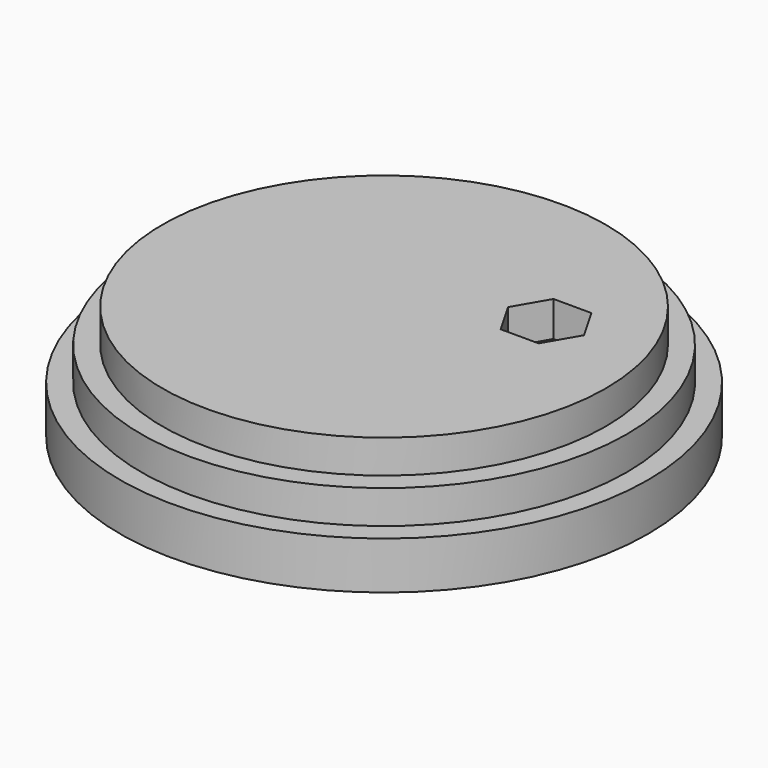
from build123d import *

# Parameters (mm, degrees)
F0_W     = 19.05
F0_H     = 3.429
F2_W     = 17.526
F2_H     = 2.413
F4_W     = 16.002
F4_H     = 2.413
F6_R     = 1.7399
F7_DEPTH = 6.985
F9_DEPTH = 2.54


with BuildPart() as f1:
    # F0 (on Front) → F1 (revolve)
    with BuildSketch(Plane.XZ):
        with Locations((9.525, 1.7145)):
            Rectangle(F0_W, F0_H)
    revolve(axis=Axis((0, 0, 1.7145), (0, 0, 1)))

    # F2 (on Front) → F3 (revolve)
    with BuildSketch(Plane.XZ):
        with Locations((8.763, 4.6355)):
            Rectangle(F2_W, F2_H)
    revolve(axis=Axis((0, 0, 4.6355), (0, 0, 1)))

    # F4 (on Front) → F5 (revolve)
    with BuildSketch(Plane.XZ):
        with Locations((8.001, 7.0485)):
            Rectangle(F4_W, F4_H)
    revolve(axis=Axis((0, 0, 7.0485), (0, 0, 1)))

    # F6 (on face) → F7 (cut)
    with BuildSketch(Plane.XY.offset(8.255)):
        with Locations((8.243714, 4.308599)):
            Circle(F6_R)
    extrude(amount=-F7_DEPTH, mode=Mode.SUBTRACT)

    # F8 (on face) → F9 (cut)
    with BuildSketch(Plane.XY.offset(8.255)):
        Polygon((10.986907, 4.302744), (9.620381, 6.681347), (6.877187, 6.687202), (5.50052, 4.314454), (6.867046, 1.935851), (9.61024, 1.929996), align=None)
    extrude(amount=-F9_DEPTH, mode=Mode.SUBTRACT)


solid = f1.part
